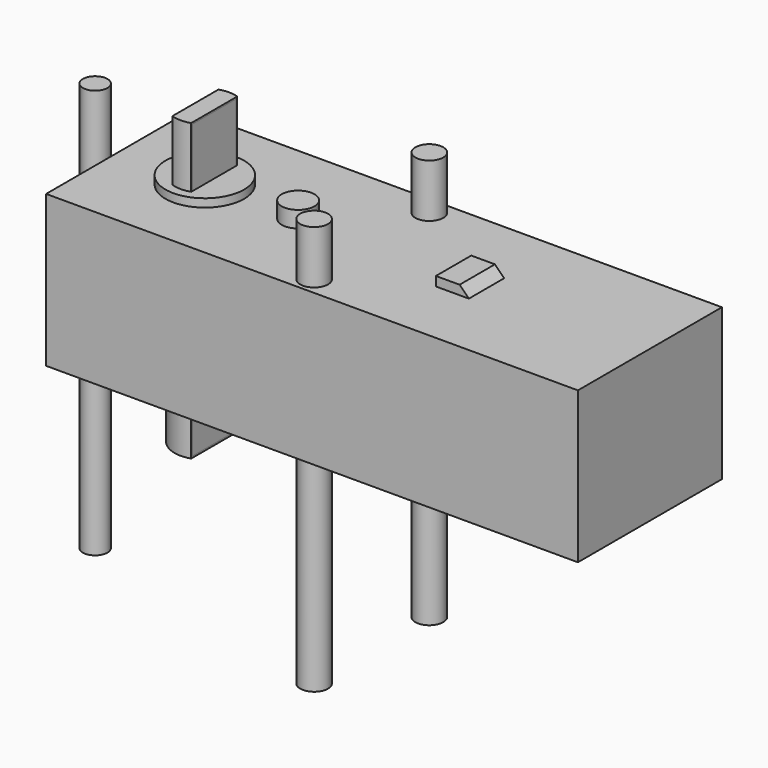
from build123d import *

# Parameters (mm, degrees)
CYLINDER001_R     = 1.5
CYLINDER001_DEPTH = 50
CYLINDER004_R     = 1.7
CYLINDER004_DEPTH = 50
CYLINDER005_R     = 1.7
CYLINDER005_DEPTH = 50
CYLINDER007_R     = 2
CYLINDER007_DEPTH = 10
CYLINDER009_R     = 4.8
CYLINDER009_DEPTH = 22.5
BOX005_W          = 10
BOX005_H          = 10
BOX005_DEPTH      = 40
BOX004_W          = 10
BOX004_H          = 10
BOX004_DEPTH      = 40
CYLINDER011_R     = 3.7
CYLINDER011_DEPTH = 36.1
BOX009_W          = 4.4
BOX009_H          = 5.4
BOX009_DEPTH      = 2
CHAMFER003_SIZE   = 1.5
BOX008_W          = 4.4
BOX008_H          = 5.4
BOX008_DEPTH      = 2
CHAMFER002_SIZE   = 1.5
BOX007_W          = 4.3
BOX007_H          = 5
BOX007_DEPTH      = 2
CHAMFER001_SIZE   = 1.5
BOX006_W          = 4.3
BOX006_H          = 5
BOX006_DEPTH      = 2
CHAMFER_SIZE      = 1.5
BOX003_W          = 10
BOX003_H          = 10
BOX003_DEPTH      = 40
BOX002_W          = 10
BOX002_H          = 10
BOX002_DEPTH      = 40
CYLINDER010_R     = 3.5
CYLINDER010_DEPTH = 35.7
CYLINDER008_R     = 4.6
CYLINDER008_DEPTH = 22
CYLINDER006_R     = 1.85
CYLINDER006_DEPTH = 10
CYLINDER003_R     = 1.7
CYLINDER003_DEPTH = 50
CYLINDER002_R     = 1.7
CYLINDER002_DEPTH = 50
CYLINDER_R        = 1.5
CYLINDER_DEPTH    = 10
BOX001_W          = 10
BOX001_H          = 6
BOX001_DEPTH      = 3
FILLET_R          = 2.5
FILLET001_R       = 2.5
BOX_W             = 65
BOX_H             = 22
BOX_DEPTH         = 18.5


with BuildPart() as endhole:
    # Cylinder001 → Cylinder001 (new body)
    with BuildSketch(Plane(origin=(-2.8, 0, -25), x_dir=(1, 0, 0), z_dir=(0, 0, 1))):
        Circle(CYLINDER001_R)
    extrude(amount=CYLINDER001_DEPTH)


with BuildPart() as cylinder004:
    # Cylinder004 → Cylinder004 (new body)
    with BuildSketch(Plane(origin=(31, 8.8, -25), x_dir=(1, 0, 0), z_dir=(0, 0, 1))):
        Circle(CYLINDER004_R)
    extrude(amount=CYLINDER004_DEPTH)


with BuildPart() as cylinder005:
    # Cylinder005 → Cylinder005 (new body)
    with BuildSketch(Plane(origin=(31, -8.8, -25), x_dir=(1, 0, 0), z_dir=(0, 0, 1))):
        Circle(CYLINDER005_R)
    extrude(amount=CYLINDER005_DEPTH)


with BuildPart() as central_bump:
    # Cylinder007 → Cylinder007 (new body)
    with BuildSketch(Plane(origin=(22, 0, 10.5), x_dir=(1, 0, 0), z_dir=(0, 0, 1))):
        Circle(CYLINDER007_R)
    extrude(amount=CYLINDER007_DEPTH)


with BuildPart() as motor_boss:
    # Cylinder009 → Cylinder009 (new body)
    with BuildSketch(Plane(origin=(10.6, 0, -3), x_dir=(1, 0, 0), z_dir=(0, 0, 1))):
        Circle(CYLINDER009_R)
    extrude(amount=CYLINDER009_DEPTH)


with BuildPart() as cube005:
    # Box005 → Box005 (new body)
    with BuildSketch(Plane(origin=(-0.55, -5, 5), x_dir=(1, 0, 0), z_dir=(0, 0, 1))):
        with Locations((5, 5)):
            Rectangle(BOX005_W, BOX005_H)
    extrude(amount=BOX005_DEPTH)


with BuildPart() as cube004:
    # Box004 → Box004 (new body)
    with BuildSketch(Plane(origin=(11.75, -5, -11), x_dir=(1, 0, 0), z_dir=(0, 0, 1))):
        with Locations((5, 5)):
            Rectangle(BOX004_W, BOX004_H)
    extrude(amount=BOX004_DEPTH)


with BuildPart() as drive:
    # Cylinder011 → Cylinder011 (new body)
    with BuildSketch(Plane(origin=(10.6, 0, -9.2), x_dir=(1, 0, 0), z_dir=(0, 0, 1))):
        Circle(CYLINDER011_R)
    extrude(amount=CYLINDER011_DEPTH)

    # Cut005: cut Cube004
    add(cube004.part, mode=Mode.SUBTRACT)

    # Cut006: cut Cube005
    add(cube005.part, mode=Mode.SUBTRACT)


with BuildPart() as chamfer003:
    # Box009 → Box009 (new body)
    with BuildSketch(Plane(origin=(41, -2.7, 17.63), x_dir=(1, 0, 0), z_dir=(0, 0, 1))):
        with Locations((2.2, 2.7)):
            Rectangle(BOX009_W, BOX009_H)
    extrude(amount=BOX009_DEPTH)

    # Chamfer003
    chamfer003_edges = [chamfer003.edges().sort_by_distance(p)[0] for p in [
        (45.4, 0, 19.63),
    ]]
    chamfer(chamfer003_edges, length=CHAMFER003_SIZE)


with BuildPart() as part_mirroring001:
    # Part__Mirroring001: instance of Chamfer003
    add(chamfer003.part.mirror(Plane(origin=(0, 0, 0), x_dir=(0, 1, 0), z_dir=(0, 0, 1))))


with BuildPart() as part_mirroring001_1:
    # Part__Mirroring001 placement: moved
    add(part_mirroring001.part.moved(Location((0, 0, 18.4))))


with BuildPart() as hook_bumps:
    # Box008 → Box008 (new body)
    with BuildSketch(Plane(origin=(41, -2.7, 17.63), x_dir=(1, 0, 0), z_dir=(0, 0, 1))):
        with Locations((2.2, 2.7)):
            Rectangle(BOX008_W, BOX008_H)
    extrude(amount=BOX008_DEPTH)

    # Chamfer002
    chamfer002_edges = [hook_bumps.edges().sort_by_distance(p)[0] for p in [
        (45.4, 0, 19.63),
    ]]
    chamfer(chamfer002_edges, length=CHAMFER002_SIZE)

    # Fusion005: union Part__Mirroring001
    add(part_mirroring001_1.part)


with BuildPart() as chamfer001:
    # Box007 → Box007 (new body)
    with BuildSketch(Plane(origin=(41, -2.5, 17.53), x_dir=(1, 0, 0), z_dir=(0, 0, 1))):
        with Locations((2.15, 2.5)):
            Rectangle(BOX007_W, BOX007_H)
    extrude(amount=BOX007_DEPTH)

    # Chamfer001
    chamfer001_edges = [chamfer001.edges().sort_by_distance(p)[0] for p in [
        (45.3, 0, 19.53),
    ]]
    chamfer(chamfer001_edges, length=CHAMFER001_SIZE)


with BuildPart() as part_mirroring:
    # Part__Mirroring: instance of Chamfer001
    add(chamfer001.part.mirror(Plane(origin=(0, 0, 0), x_dir=(0, 1, 0), z_dir=(0, 0, 1))))


with BuildPart() as part_mirroring_1:
    # Part__Mirroring placement: moved
    add(part_mirroring.part.moved(Location((0, 0, 18.4))))


with BuildPart() as fusion004:
    # Box006 → Box006 (new body)
    with BuildSketch(Plane(origin=(41, -2.5, 17.53), x_dir=(1, 0, 0), z_dir=(0, 0, 1))):
        with Locations((2.15, 2.5)):
            Rectangle(BOX006_W, BOX006_H)
    extrude(amount=BOX006_DEPTH)

    # Chamfer
    chamfer_edges = [fusion004.edges().sort_by_distance(p)[0] for p in [
        (45.3, 0, 19.53),
    ]]
    chamfer(chamfer_edges, length=CHAMFER_SIZE)

    # Fusion004: union Part__Mirroring
    add(part_mirroring_1.part)


with BuildPart() as cube003:
    # Box003 → Box003 (new body)
    with BuildSketch(Plane(origin=(-0.55, -5, 5), x_dir=(1, 0, 0), z_dir=(0, 0, 1))):
        with Locations((5, 5)):
            Rectangle(BOX003_W, BOX003_H)
    extrude(amount=BOX003_DEPTH)


with BuildPart() as cube002:
    # Box002 → Box002 (new body)
    with BuildSketch(Plane(origin=(11.75, -5, -11), x_dir=(1, 0, 0), z_dir=(0, 0, 1))):
        with Locations((5, 5)):
            Rectangle(BOX002_W, BOX002_H)
    extrude(amount=BOX002_DEPTH)


with BuildPart() as cut004:
    # Cylinder010 → Cylinder010 (new body)
    with BuildSketch(Plane(origin=(10.6, 0, -9), x_dir=(1, 0, 0), z_dir=(0, 0, 1))):
        Circle(CYLINDER010_R)
    extrude(amount=CYLINDER010_DEPTH)

    # Cut003: cut Cube002
    add(cube002.part, mode=Mode.SUBTRACT)

    # Cut004: cut Cube003
    add(cube003.part, mode=Mode.SUBTRACT)


with BuildPart() as cylinder008:
    # Cylinder008 → Cylinder008 (new body)
    with BuildSketch(Plane(origin=(10.6, 0, -2.8), x_dir=(1, 0, 0), z_dir=(0, 0, 1))):
        Circle(CYLINDER008_R)
    extrude(amount=CYLINDER008_DEPTH)


with BuildPart() as cylinder003:
    # Cylinder006 → Cylinder006 (new body)
    with BuildSketch(Plane(origin=(22, 0, 10.2), x_dir=(1, 0, 0), z_dir=(0, 0, 1))):
        Circle(CYLINDER006_R)
    extrude(amount=CYLINDER006_DEPTH)


with BuildPart() as cylinder002:
    # Cylinder003 → Cylinder003 (new body)
    with BuildSketch(Plane(origin=(31, -8.8, -25), x_dir=(1, 0, 0), z_dir=(0, 0, 1))):
        Circle(CYLINDER003_R)
    extrude(amount=CYLINDER003_DEPTH)


with BuildPart() as cylinder001:
    # Cylinder002 → Cylinder002 (new body)
    with BuildSketch(Plane(origin=(31, 8.8, -25), x_dir=(1, 0, 0), z_dir=(0, 0, 1))):
        Circle(CYLINDER002_R)
    extrude(amount=CYLINDER002_DEPTH)


with BuildPart() as cylinder:
    # Cylinder → Cylinder (new body)
    with BuildSketch(Plane(origin=(-2.8, 0, 3), x_dir=(1, 0, 0), z_dir=(0, 0, 1))):
        Circle(CYLINDER_R)
    extrude(amount=CYLINDER_DEPTH)


with BuildPart() as fillet001:
    # Box001 → Box001 (new body)
    with BuildSketch(Plane(origin=(-5, -3, 7), x_dir=(1, 0, 0), z_dir=(0, 0, 1))):
        with Locations((5, 3)):
            Rectangle(BOX001_W, BOX001_H)
    extrude(amount=BOX001_DEPTH)

    # Cut: cut Cylinder
    add(cylinder.part, mode=Mode.SUBTRACT)

    # Fillet
    fillet_edges = [fillet001.edges().sort_by_distance(p)[0] for p in [
        (-5, -3, 8.5),
    ]]
    fillet(fillet_edges, radius=FILLET_R)

    # Fillet001
    fillet001_edges = [fillet001.edges().sort_by_distance(p)[0] for p in [
        (-5, 3, 8.5),
    ]]
    fillet(fillet001_edges, radius=FILLET001_R)


with BuildPart() as fusion006:
    # Box → Box (new body)
    with BuildSketch(Plane(origin=(0, -11, 0), x_dir=(1, 0, 0), z_dir=(0, 0, 1))):
        with Locations((32.5, 11)):
            Rectangle(BOX_W, BOX_H)
    extrude(amount=BOX_DEPTH)

    # Fusion: union Fillet001
    add(fillet001.part)

    # Cut001: cut Cylinder001
    add(cylinder001.part, mode=Mode.SUBTRACT)

    # Cut002: cut Cylinder002
    add(cylinder002.part, mode=Mode.SUBTRACT)

    # Fusion001: union Cylinder003
    add(cylinder003.part)

    # Fusion002: union Cylinder008
    add(cylinder008.part)

    # Fusion003: union Cut004
    add(cut004.part)

    # Fusion006: union Fusion004
    add(fusion004.part)


solid = Compound([endhole.part, cylinder004.part, cylinder005.part, central_bump.part, motor_boss.part, drive.part, hook_bumps.part, fusion006.part])
